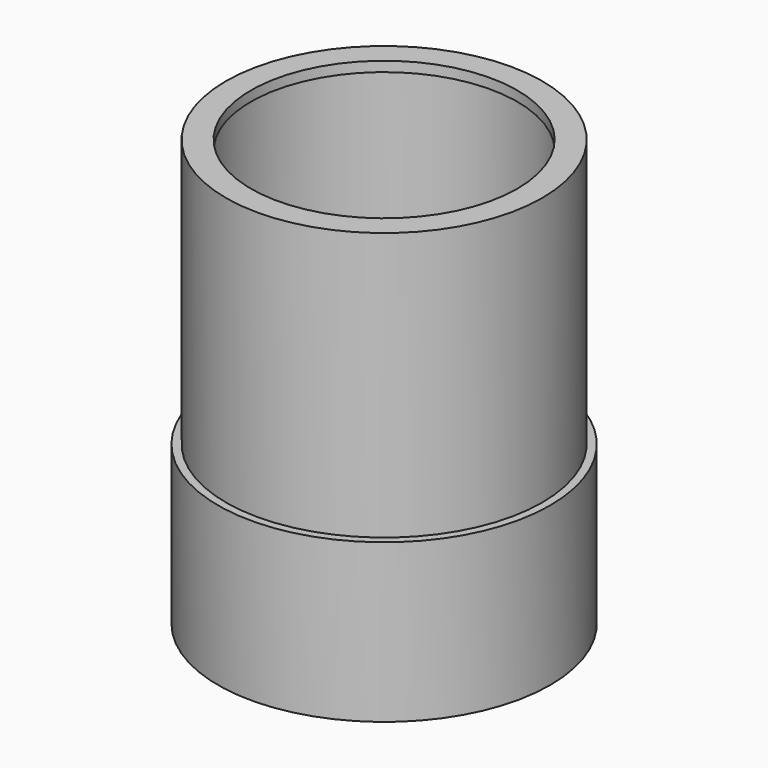
from build123d import *

# Parameters (mm, degrees)
F0_R     = 9.975
F0_R_2   = 9.5
F0_R_3   = 9
F1_DEPTH = 9.5
F3_R     = 9.5
F3_R_2   = 8.5
F4_DEPTH = 18.6
F6_R     = 8.5
F6_R_2   = 8
F7_DEPTH = 0.6
F0_R_4   = 8.5
F0_R_5   = 8.4
F0_R_6   = 8
F8_DEPTH = 3
F9_SIZE2 = 0.8
F9_SIZE  = 0.3


with BuildPart() as f1:
    # F0 (on Top) → F1 (new body)
    with BuildSketch(Plane.XY):
        Circle(F0_R)
        Circle(F0_R_2, mode=Mode.SUBTRACT)
        Circle(F0_R_2)
        Circle(F0_R_3, mode=Mode.SUBTRACT)
    extrude(amount=F1_DEPTH)

    # F3 (on offset) → F4 (join)
    with BuildSketch(Plane.XY.offset(7)):
        Circle(F3_R)
        Circle(F3_R_2, mode=Mode.SUBTRACT)
    extrude(amount=F4_DEPTH)

    # F6 (on offset) → F7 (join)
    with BuildSketch(Plane.XY.offset(25.6)):
        Circle(F6_R)
        Circle(F6_R_2, mode=Mode.SUBTRACT)
    extrude(amount=-F7_DEPTH)


with BuildPart() as f8:
    # F0 (on Top) → F8 (new body)
    with BuildSketch(Plane.XY):
        Circle(F0_R_3)
        Circle(F0_R_4, mode=Mode.SUBTRACT)
        Circle(F0_R_4)
        Circle(F0_R_5, mode=Mode.SUBTRACT)
        Circle(F0_R_5)
        Circle(F0_R_6, mode=Mode.SUBTRACT)
    extrude(amount=F8_DEPTH)

    # F9
    f9_edges = [f8.edges().sort_by_distance(p)[0] for p in [
        (-8, 0, 3),
    ]]
    f9_side = f8.faces().sort_by_distance((-8, 0, 1.5))[0]
    chamfer(f9_edges, length=F9_SIZE, length2=F9_SIZE2, reference=f9_side)


with BuildPart() as f11:
    # F10 (on Front) → F11 (revolve)
    with BuildSketch(Plane.XZ):
        with BuildLine():
            ThreePointArc((0, 3.937538316), (4.5291267595, 3.6802987989), (9, 2.9118888558))
            Line((9, 2.9118888558), (9, 7.0072492507))
            ThreePointArc((9, 7.0072492507), (4.523976065, 7.7043481217), (0, 7.937538316))
            Line((0, 7.937538316), (0, 3.937538316))
        make_face()
    revolve(axis=Axis((0, 0, 9.7422385588), (0, 0, 1)))


with BuildPart() as f12:
    # F10 (on Front) → F12 (revolve)
    with BuildSketch(Plane.XZ):
        with BuildLine():
            ThreePointArc((0, 1.8862393956), (4.5291267595, 2.1434789128), (9, 2.9118888558))
            ThreePointArc((9, 2.9118888558), (4.5291267595, 3.6802987989), (0, 3.937538316))
            Line((0, 3.937538316), (0, 1.8862393956))
        make_face()
        with BuildLine():
            ThreePointArc((0, 1.8862393956), (4.5291267595, 2.1434789128), (9, 2.9118888558))
            ThreePointArc((9, 2.9118888558), (4.5291267595, 3.6802987989), (0, 3.937538316))
            Line((0, 3.937538316), (0, 1.8862393956))
        make_face()
    revolve(axis=Axis((0, 0, 9.7422385588), (0, 0, 1)))


solid = Compound([f1.part, f8.part, f11.part, f12.part])
